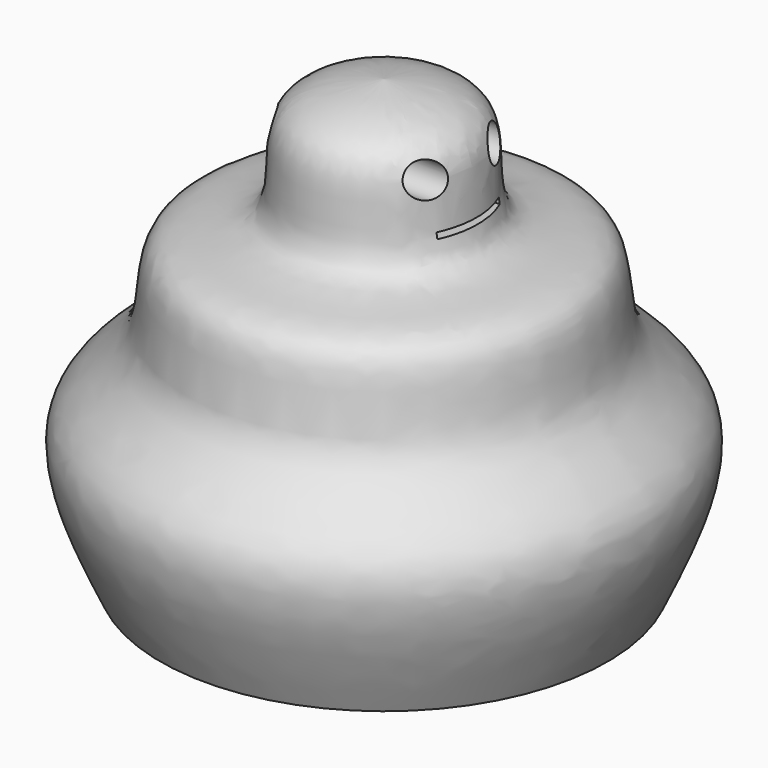
from build123d import *

# Parameters (mm, degrees)
F3_R     = 3.75
F4_DEPTH = 85.4789151041


with BuildPart() as f1:
    # F0 (on Right) → F1 (revolve)
    with BuildSketch(Plane.YZ):
        with BuildLine():
            Line((0, 100.8902266622), (0, 0))
            Line((0, 0), (51.2344501913, 0))
            add(Edge.make_bspline(
                [(0, 100.8902266622), (8.4698401948, 99.8489049817), (25.0942340387, 97.8050244202), (16.922268422, 68.3976577996), (47.3352426346, 73.0575750985), (41.1571547393, 45.7896436353), (67.3021833836, 34.7621968521), (57.0002225573, 12.4741251049), (51.2344501913, 0)],
                knots=[0, 0, 0, 0, 0.1631107367, 0.3201497389, 0.4739458471, 0.6308751279, 0.7934092332, 1, 1, 1, 1], degree=3))
        make_face()
    revolve(axis=Axis((0, 0, 50.4451133311), (0, 0, 1)))

    # F3 (on offset) → F4 (cut, through all)
    with BuildSketch(Plane.YZ.offset(25)):
        with Locations((-9.9752387032, 90.2198702097)):
            Circle(F3_R)
        with Locations((8.7747612968, 90.2198702097)):
            Circle(F3_R)
        Polygon((8.545126766, 79.8635110259), (0, 79.8635110259), (-9.0392390266, 79.8635110259), (-9.0392390266, 78.5211697221), (8.545126766, 78.5211697221), align=None)
    extrude(amount=-F4_DEPTH, mode=Mode.SUBTRACT)


solid = f1.part
